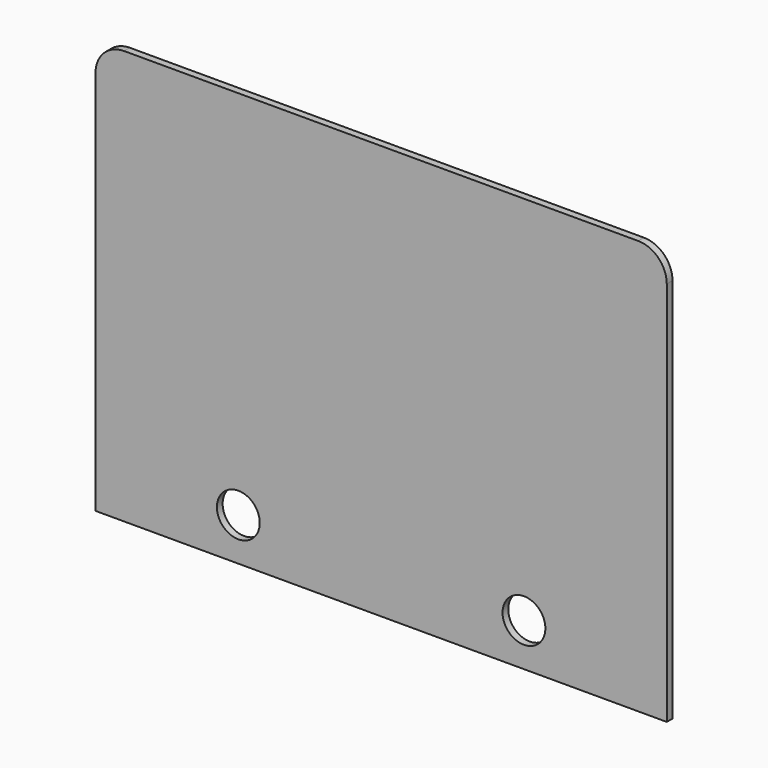
from build123d import *

# Parameters (mm, degrees)
F0_R     = 1.5
F1_DEPTH = 0.5


with BuildPart() as f1:
    # F0 (on Front) → F1 (new body)
    with BuildSketch(Plane.XZ):
        with BuildLine():
            Line((38, 40), (2, 40))
            ThreePointArc((2, 40), (0.585786, 39.414214), (0, 38))
            Line((0, 38), (0, 11))
            Line((0, 11), (40, 11))
            Line((40, 11), (40, 38))
            ThreePointArc((40, 38), (39.414214, 39.414214), (38, 40))
        make_face()
        with Locations((10, 14)):
            Circle(F0_R, mode=Mode.SUBTRACT)
        with Locations((30, 14)):
            Circle(F0_R, mode=Mode.SUBTRACT)
    extrude(amount=F1_DEPTH)


solid = f1.part
